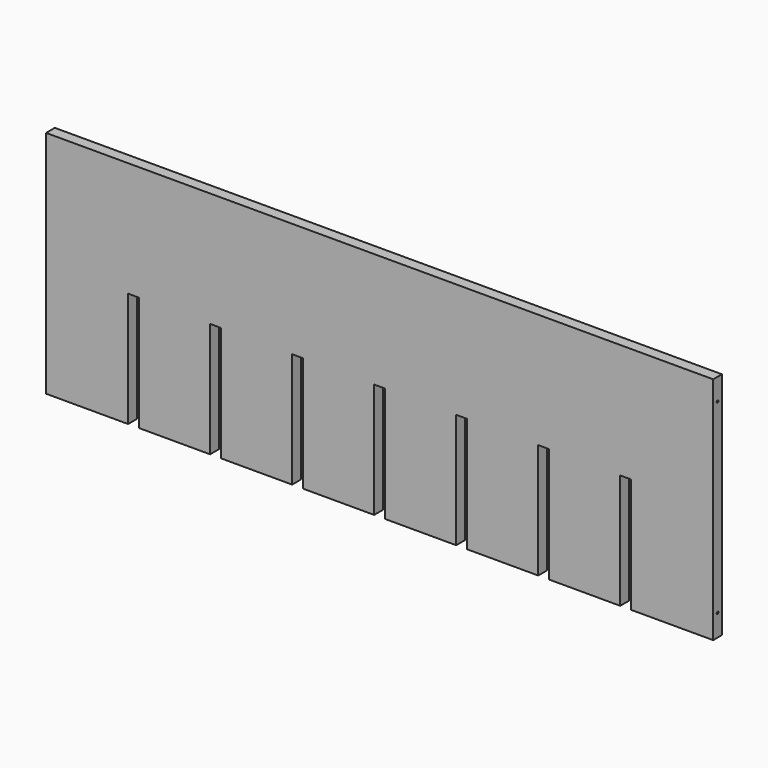
from build123d import *

# Parameters (mm, degrees)
F0_W     = 610
F0_H     = 210
F1_DEPTH = 10
F2_W     = 10
F2_H     = 105
F3_DEPTH = 25
F5_D     = 2
F5_DEPTH = 12
F5_TIP   = 0.600860619
F7_D     = 2
F7_DEPTH = 12
F7_TIP   = 0.600860619


with BuildPart() as f1:
    # F0 (on Front) → F1 (new body)
    with BuildSketch(Plane.XZ):
        with Locations((-305, 105)):
            Rectangle(F0_W, F0_H)
    extrude(amount=F1_DEPTH)

    # F2 (on face) → F3 (cut)
    with BuildSketch(Plane.XZ.offset(10)):
        with Locations((-530, 52.5)):
            Rectangle(F2_W, F2_H)
        with Locations((-455, 52.5)):
            Rectangle(F2_W, F2_H)
        with Locations((-380, 52.5)):
            Rectangle(F2_W, F2_H)
        with Locations((-230, 52.5)):
            Rectangle(F2_W, F2_H)
        with Locations((-155, 52.5)):
            Rectangle(F2_W, F2_H)
        with Locations((-305, 52.5)):
            Rectangle(F2_W, F2_H)
        with Locations((-80, 52.5)):
            Rectangle(F2_W, F2_H)
    extrude(amount=-F3_DEPTH, mode=Mode.SUBTRACT)

    # F5
    with Locations(Plane(origin=(-610, 0, 0), x_dir=(0, -1, 0), z_dir=(-1, 0, 0))):
        with Locations((5, 190), (5, 20)):
            Hole(F5_D / 2, depth=F5_DEPTH)
            with Locations((0, 0, -(F5_DEPTH + F5_TIP / 2))):  # 118° drill point
                Cone(0, F5_D / 2, F5_TIP, mode=Mode.SUBTRACT)

    # F7
    with Locations(Plane.YZ):
        with Locations((-5, 190), (-5, 20)):
            Hole(F7_D / 2, depth=F7_DEPTH)
            with Locations((0, 0, -(F7_DEPTH + F7_TIP / 2))):  # 118° drill point
                Cone(0, F7_D / 2, F7_TIP, mode=Mode.SUBTRACT)


solid = f1.part
